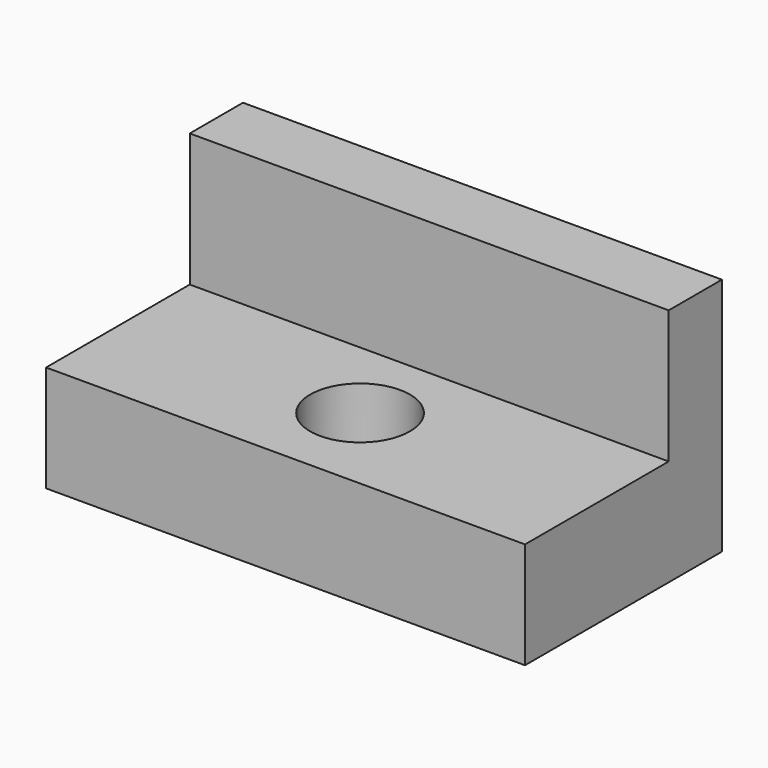
from build123d import *

# Parameters (mm, degrees)
F0_R     = 11.90625
F1_DEPTH = 25.4
F0_W     = 19.05
F0_H     = 15.875
F0_W_2   = 38.1
F2_DEPTH = 57.15


with BuildPart() as f1:
    # F0 (on Top) → F1 (new body)
    with BuildSketch(Plane.XY):
        Polygon((-57.15, -29.36875), (57.15, -29.36875), (57.15, 13.49375), (38.1, 13.49375), (0, 13.49375), (-38.1, 13.49375), (-57.15, 13.49375), align=None)
        with Locations((0, -7.14375)):
            Circle(F0_R, mode=Mode.SUBTRACT)
    extrude(amount=F1_DEPTH)

    # F0 (on Top) → F2 (join)
    with BuildSketch(Plane.XY):
        with Locations((-47.625, 21.43125)):
            Rectangle(F0_W, F0_H)
        with Locations((-19.05, 21.43125)):
            Rectangle(F0_W_2, F0_H)
        with Locations((19.05, 21.43125)):
            Rectangle(F0_W_2, F0_H)
        with Locations((47.625, 21.43125)):
            Rectangle(F0_W, F0_H)
    extrude(amount=F2_DEPTH)


solid = f1.part
